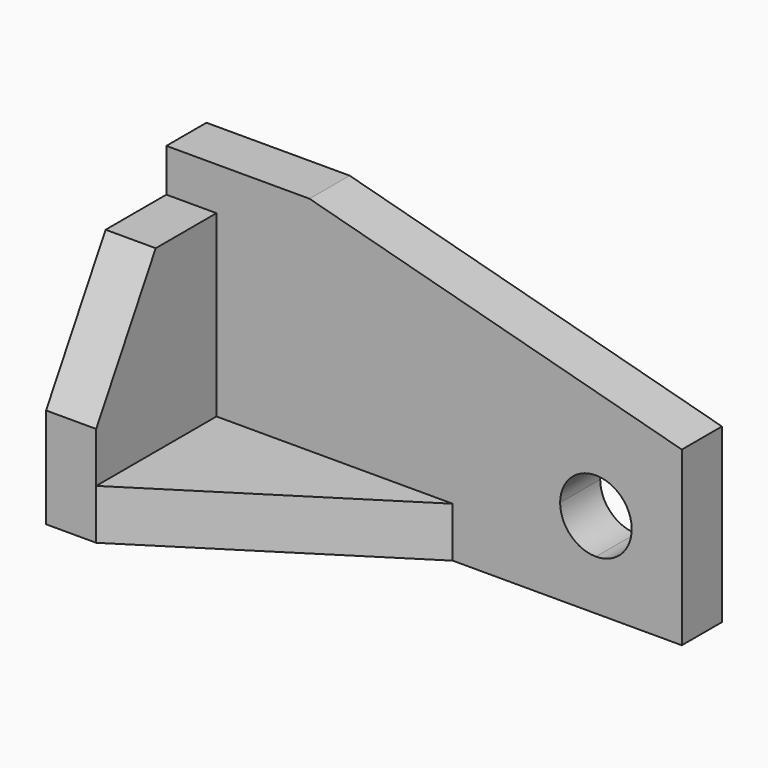
from build123d import *

# Parameters (mm, degrees)
F1_DEPTH = 60.325
F0_W     = 11.1125
F0_H     = 33.3375
F2_DEPTH = 50.8
F3_DEPTH = 11.1125
F5_DEPTH = 11.1125
F7_DEPTH = 11.1125


with BuildPart() as f1:
    # F0 (on Top) → F1 (new body)
    with BuildSketch(Plane.XY):
        Polygon((114.3, 0), (0, 0), (0, -11.1125), (11.1125, -11.1125), (63.5, -11.1125), (114.3, -11.1125), align=None)
    extrude(amount=F1_DEPTH)

    # F0 (on Top) → F2 (join)
    with BuildSketch(Plane.XY):
        with Locations((5.55625, -27.78125)):
            Rectangle(F0_W, F0_H)
    extrude(amount=F2_DEPTH)

    # F0 (on Top) → F3 (join)
    with BuildSketch(Plane.XY):
        Polygon((63.5, -11.1125), (11.1125, -11.1125), (11.1125, -44.45), align=None)
    extrude(amount=F3_DEPTH)

    # F4 (on face) → F5 (cut, through all)
    with BuildSketch(Plane(origin=(0, 0, 0), x_dir=(0, -1, 0), z_dir=(-1, 0, 0))):
        Polygon((27.952216, 50.8), (44.45, 22.225), (44.45, 50.8), align=None)
    extrude(amount=-F5_DEPTH, mode=Mode.SUBTRACT)

    # F6 (on face) → F7 (cut, through all)
    with BuildSketch(Plane(origin=(0, 0, 0), x_dir=(-1, 0, 0), z_dir=(0, 1, 0))):
        with BuildLine():
            ThreePointArc((-87.3125, 19.05), (-100.86266, 24.66266), (-95.25, 11.1125))
            ThreePointArc((-95.25, 11.1125), (-89.63734, 13.43734), (-87.3125, 19.05))
        make_face()
        Polygon((-114.3, 38.205794), (-31.75, 60.325), (-114.3, 60.325), align=None)
    extrude(amount=-F7_DEPTH, mode=Mode.SUBTRACT)


solid = f1.part
